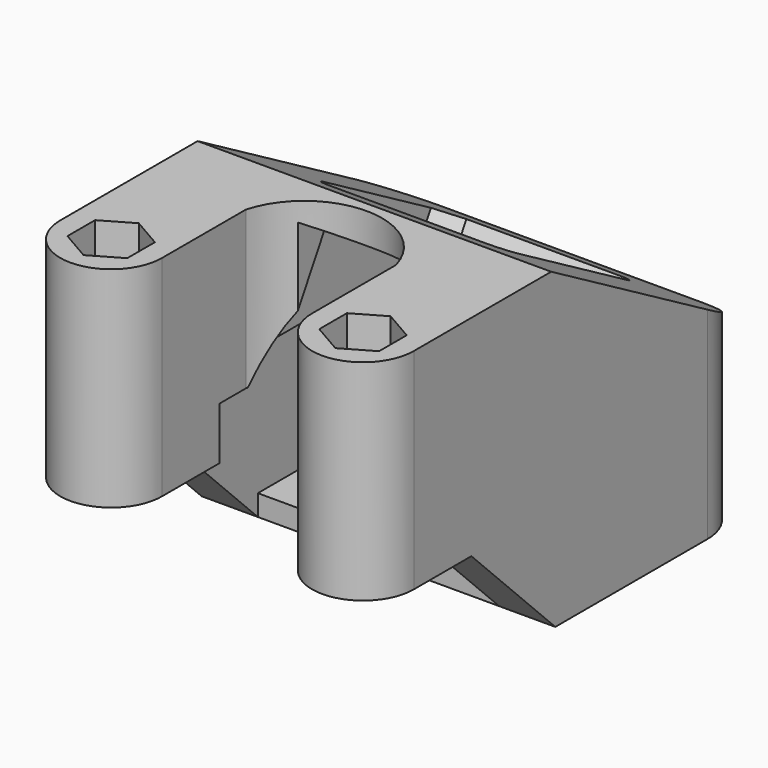
from build123d import *

# Parameters (mm, degrees)
PAD_DEPTH       = 20
POCKET_DEPTH    = 35
POCKET001_DEPTH = 25
POCKET002_DEPTH = 30
SKETCH004_W     = 23
SKETCH004_H     = 30
POCKET003_DEPTH = 5
PAD001_DEPTH    = 10
POCKET004_DEPTH = 35
SKETCH007_R     = 3.25
SKETCH007_R_2   = 1.75
POCKET005_DEPTH = 5
CHAMFER_SIZE    = 0.9
PAD002_DEPTH    = 2


with BuildPart() as part:
    # Sketch → Pad (new body)
    with BuildSketch(Plane.XY):
        with BuildLine():
            ThreePointArc((-16.85, 0), (-12, -4.85), (-7.15, 0))
            Line((-7.15, 0), (-7.15, 10))
            ThreePointArc((7.15, 10), (0, 15.4244528418), (-7.15, 10))
            Line((7.15, 0), (7.15, 10))
            ThreePointArc((7.15, 0), (12, -4.85), (16.85, 0))
            Line((16.85, 0), (16.85, 35))
            ThreePointArc((16.85, 35), (15.4294678888, 38.4294678888), (12, 39.85))
            Line((-12, 39.85), (12, 39.85))
            ThreePointArc((-12, 39.85), (-15.4294678888, 38.4294678888), (-16.85, 35))
            Line((-16.85, 0), (-16.85, 35))
        make_face()
        Polygon((-9.15, -1.6454482672), (-9.15, 1.6454482672), (-12, 3.2908965344), (-14.85, 1.6454482672), (-14.85, -1.6454482672), (-12, -3.2908965344), align=None, mode=Mode.SUBTRACT)
        Polygon((14.85, -1.6454482672), (14.85, 1.6454482672), (12, 3.2908965344), (9.15, 1.6454482672), (9.15, -1.6454482672), (12, -3.2908965344), align=None, mode=Mode.SUBTRACT)
    extrude(amount=PAD_DEPTH)

    # Sketch001 (on Face8 of Pad) → Pocket (cut)
    with BuildSketch(Plane.YZ.offset(16.85)):
        Polygon((7.6987298108, 25), (51, 25), (51, 0), align=None)
    extrude(amount=-POCKET_DEPTH, mode=Mode.SUBTRACT)

    # Sketch002 (on Face4 of Pocket) → Pocket001 (cut)
    with BuildSketch(Plane(origin=(0, 12.75, 22.0836477965), x_dir=(1, 0, 0), z_dir=(0, 0.5, 0.8660254038))):
        with BuildLine():
            Line((-7.25, 27.2923845901), (7.25, 27.2923845901))
            ThreePointArc((9.25, 25.2923845901), (8.6642135624, 26.7065981525), (7.25, 27.2923845901))
            Line((9.25, 25.2923845901), (9.25, 10.7923845901))
            ThreePointArc((7.25, 8.7923845901), (8.6642135624, 9.3781710277), (9.25, 10.7923845901))
            Line((-7.25, 8.7923845901), (7.25, 8.7923845901))
            ThreePointArc((-9.25, 10.7923845901), (-8.6642135624, 9.3781710277), (-7.25, 8.7923845901))
            Line((-9.25, 25.2923845901), (-9.25, 10.7923845901))
            Line((-9.25, 25.2923845901), (-7.25, 27.2923845901))
        make_face()
    extrude(amount=-POCKET001_DEPTH, mode=Mode.SUBTRACT)

    # Sketch003 (on DatumPlane) → Pocket002 (cut)
    with BuildSketch(Plane(origin=(0, 12.1160254038, 18.9855715851), x_dir=(1, 0, 0), z_dir=(0, 0.5, 0.8660254038))):
        Polygon((-10.5, 28.2923845901), (10.5, 28.2923845901), (10.5, 5.2923845901), (5, 5.2923845901), (5, -0.7076154099), (-5, -0.7076154099), (-5, 5.2923845901), (-10.5, 5.2923845901), align=None)
    extrude(amount=-POCKET002_DEPTH, mode=Mode.SUBTRACT)

    # Sketch004 (on Face2 of Pocket002) → Pocket003 (cut)
    with BuildSketch(Plane(origin=(0, 0, 0), x_dir=(1, 0, 0), z_dir=(0, 0, -1))):
        with Locations((0, -21.85)):
            Rectangle(SKETCH004_W, SKETCH004_H)
    extrude(amount=-POCKET003_DEPTH, mode=Mode.SUBTRACT)

    # Sketch005 (on Face2 of Pocket003) → Pad001 (join)
    with BuildSketch(Plane(origin=(0, 0, 0), x_dir=(1, 0, 0), z_dir=(0, 0, -1))):
        with BuildLine():
            Line((-11.5, -6.85), (-16.85, -6.85))
            Line((-16.85, -6.85), (-16.85, -35))
            ThreePointArc((-16.85, -35), (-15.4294678888, -38.4294678888), (-12, -39.85))
            Line((-12, -39.85), (12, -39.85))
            ThreePointArc((12, -39.85), (15.4294678888, -38.4294678888), (16.85, -35))
            Line((16.85, -6.85), (16.85, -35))
            Line((11.5, -6.85), (16.85, -6.85))
            Line((11.5, -36.85), (11.5, -6.85))
            Line((-11.5, -36.85), (11.5, -36.85))
            Line((-11.5, -6.85), (-11.5, -36.85))
        make_face()
    extrude(amount=PAD001_DEPTH)

    # Sketch006 (on Face25 of Pad001) → Pocket004 (cut)
    with BuildSketch(Plane.YZ.offset(16.85)):
        Polygon((6.85, 0), (16.85, -10), (6.85, -10), align=None)
    extrude(amount=-POCKET004_DEPTH, mode=Mode.SUBTRACT)

    # Sketch007 (on Face7 of Pocket004) → Pocket005 (cut)
    with BuildSketch(Plane(origin=(0, 39.85, 0), x_dir=(-1, 0, 0), z_dir=(0, 1, 0))):
        with Locations((0, -3)):
            Circle(SKETCH007_R)
        with Locations((6, -3)):
            Circle(SKETCH007_R_2)
        with Locations((-6, -3)):
            Circle(SKETCH007_R_2)
    extrude(amount=-POCKET005_DEPTH, mode=Mode.SUBTRACT)

    # Chamfer
    chamfer_edges = [part.edges().sort_by_distance(p)[0] for p in [
        (7.75, 39.85, -3),
        (-4.25, 39.85, -3),
    ]]
    chamfer(chamfer_edges, length=CHAMFER_SIZE)

    # Sketch008 (on Face8 of Pocket005) → Pad002 (join)
    with BuildSketch(Plane(origin=(0, 0, -10), x_dir=(1, 0, 0), z_dir=(0, 0, -1))):
        with BuildLine():
            Line((-16.85, -16.85), (16.85, -16.85))
            Line((16.85, -16.85), (16.85, -35))
            ThreePointArc((12, -39.85), (15.4294678888, -38.4294678888), (16.85, -35))
            Line((12, -39.85), (-12, -39.85))
            ThreePointArc((-16.85, -35), (-15.4294678888, -38.4294678888), (-12, -39.85))
            Line((-16.85, -16.85), (-16.85, -35))
        make_face()
    extrude(amount=-PAD002_DEPTH)


solid = part.part
